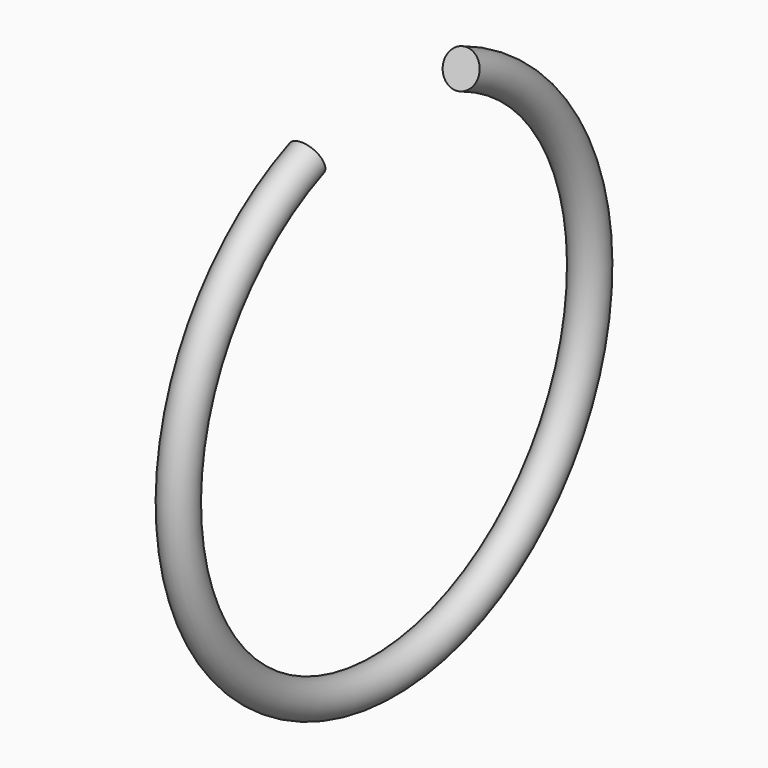
from build123d import *

# Parameters (mm, degrees)
F0_R     = 0.5
F3_DEPTH = 12.5


with BuildPart() as f1:
    # F0 (on Front) → F1 (revolve)
    with BuildSketch(Plane.XZ):
        with Locations((0, 7.25)):
            Circle(F0_R)
    revolve(axis=Axis((-0.803067, 0, 0), (1, 0, 0)))

    # F2 (on Right) → F3 (cut, symmetric)
    with BuildSketch(Plane.YZ):
        Polygon((-7.5, 18.540496), (0, 0), (7.5, 18.540496), align=None)
    extrude(amount=F3_DEPTH, both=True, mode=Mode.SUBTRACT)


solid = f1.part
